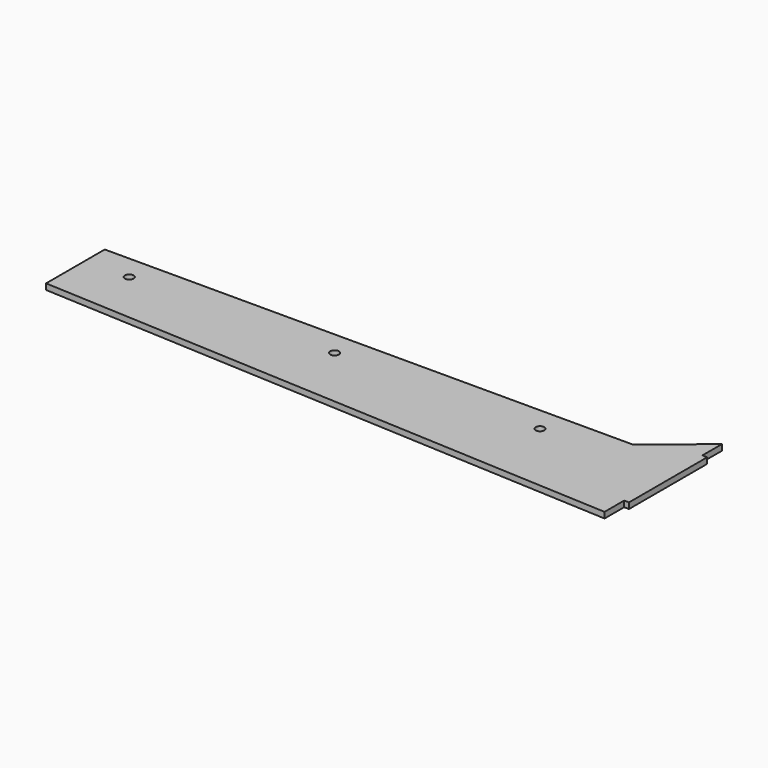
from build123d import *

# Parameters (mm, degrees)
F0_R     = 4.5
F1_DEPTH = 6


with BuildPart() as f1:
    # F0 (on Top) → F1 (new body)
    with BuildSketch(Plane.XY):
        Polygon((0, 75), (0, 0), (595, -30), (595, -5), (600, -5), (600, 95), (595, 95), (595, 120), (540, 75), align=None)
        with Locations((45, 50)):
            Circle(F0_R, mode=Mode.SUBTRACT)
        with Locations((255, 50)):
            Circle(F0_R, mode=Mode.SUBTRACT)
        with Locations((465, 50)):
            Circle(F0_R, mode=Mode.SUBTRACT)
    extrude(amount=F1_DEPTH)


solid = f1.part
